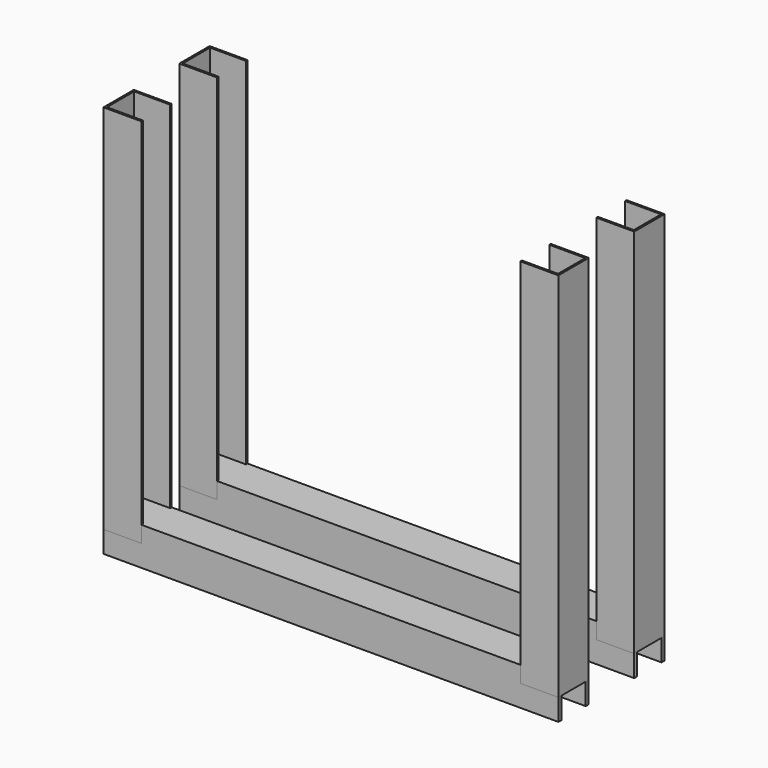
from build123d import *

# Parameters (mm, degrees)
F1_DEPTH = 600
F3_DEPTH = 980


with BuildPart() as f1:
    # F0 (on Right) → F1 (new body, symmetric)
    with BuildSketch(Plane.YZ):
        Polygon((-75, 43.027725), (-175, 43.027725), (-175, -56.972275), (-165, -56.972275), (-165, 33.027725), (-85, 33.027725), (-85, -56.972275), (-75, -56.972275), align=None)
        Polygon((175, 43.027725), (75, 43.027725), (75, -56.972275), (85, -56.972275), (85, 33.027725), (165, 33.027725), (165, -56.972275), (175, -56.972275), align=None)
    extrude(amount=F1_DEPTH, both=True)


with BuildPart() as f3:
    # F2 (on Top) → F3 (new body)
    with BuildSketch(Plane.XY):
        Polygon((-595, 80), (-595, 170), (-500, 170), (-500, 175), (-600, 175), (-600, 75), (-500, 75), (-500, 80), align=None)
        Polygon((-595, -170), (-595, -80), (-500, -80), (-500, -75), (-600, -75), (-600, -175), (-500, -175), (-500, -170), align=None)
        Polygon((600, 75), (600, 175), (500, 175), (500, 170), (595, 170), (595, 80), (500, 80), (500, 75), align=None)
        Polygon((600, -175), (600, -75), (500, -75), (500, -80), (595, -80), (595, -170), (500, -170), (500, -175), align=None)
    extrude(amount=F3_DEPTH)


solid = Compound([f1.part, f3.part])
